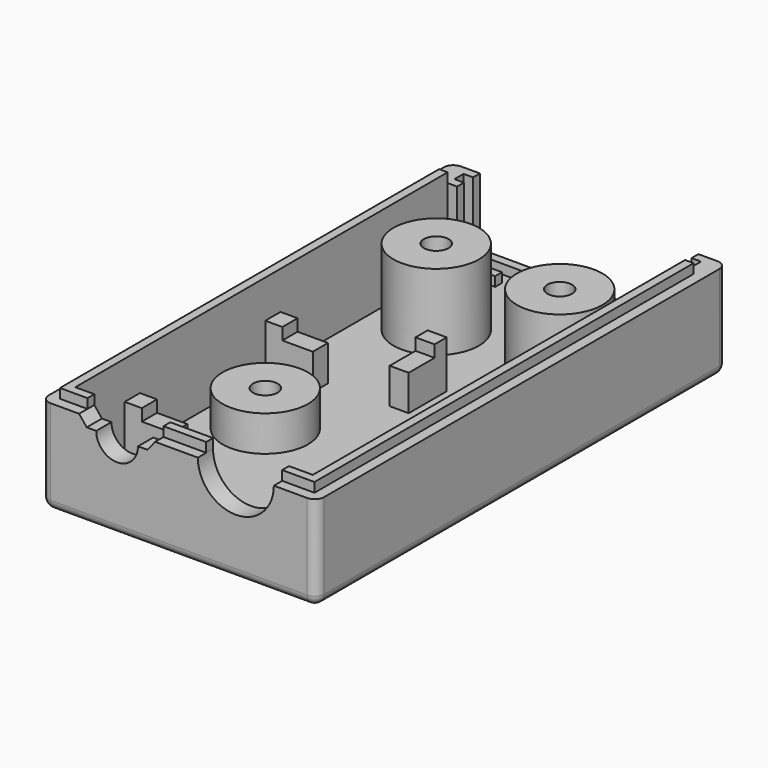
from build123d import *

# Parameters (mm, degrees)
SKETCH008_W     = 36.83
SKETCH008_H     = 68.58
PAD006_DEPTH    = 8.89
SKETCH009_W     = 31.75
SKETCH009_H     = 62.23
POCKET001_DEPTH = 6.35
SKETCH010_R     = 5.715
SKETCH010_W     = 6.35
SKETCH010_H     = 2.54
SKETCH010_W_2   = 5.08
SKETCH010_W_3   = 2.54
SKETCH010_H_2   = 6.35
SKETCH010_H_3   = 3.81
PAD007_DEPTH    = 6.35
POCKET002_DEPTH = 1.5875
SKETCH012_W     = 36.83
SKETCH012_H     = 68.58
SKETCH012_W_2   = 31.75
SKETCH012_H_2   = 62.23
SKETCH012_R     = 5.715
PAD008_DEPTH    = 3.81
SKETCH013_R     = 5.08
POCKET003_DEPTH = 5.08
SKETCH014_R     = 1.651
POCKET004_DEPTH = 12.701
SKETCH015_R     = 3.175
POCKET005_DEPTH = 10.16
SKETCH016_R     = 3.175
POCKET006_DEPTH = 4.7625
SKETCH017_W     = 5.715
SKETCH017_H     = 1.143
PAD009_DEPTH    = 1.27
POCKET007_DEPTH = 10.16
SKETCH019_W     = 29.21
SKETCH019_H     = 1.143
SKETCH019_W_2   = 5.08
PAD010_DEPTH    = 1.27
FILLET004_R     = 1.27
FILLET005_R     = 0.762


with BuildPart() as part:
    # Sketch008 → Pad006 (new body)
    with BuildSketch(Plane.XY):
        with Locations((15.875, 31.75)):
            Rectangle(SKETCH008_W, SKETCH008_H)
    extrude(amount=-PAD006_DEPTH)

    # Sketch009 (on Face5 of Pad006) → Pocket001 (cut)
    with BuildSketch(Plane.XY):
        with Locations((15.875, 31.115)):
            Rectangle(SKETCH009_W, SKETCH009_H)
    extrude(amount=-POCKET001_DEPTH, mode=Mode.SUBTRACT)

    # Sketch010 (on Face11 of Pocket001) → Pad007 (join)
    with BuildSketch(Plane.XY.offset(-6.35)):
        with Locations((7.62, 22.225)):
            Circle(SKETCH010_R)
        with Locations((7.62, 50.8)):
            Circle(SKETCH010_R)
        with Locations((24.13, 50.8)):
            Circle(SKETCH010_R)
        with Locations((3.175, 33.02)):
            Rectangle(SKETCH010_W, SKETCH010_H)
        with Locations((29.21, 33.02)):
            Rectangle(SKETCH010_W_2, SKETCH010_H)
        with Locations((3.175, 9.525)):
            Rectangle(SKETCH010_W, SKETCH010_H)
        with Locations((29.21, 9.525)):
            Rectangle(SKETCH010_W_2, SKETCH010_H)
        with Locations((15.875, 37.465)):
            Rectangle(SKETCH010_W_3, SKETCH010_H_2)
        with Locations((13.97, 1.905)):
            Rectangle(SKETCH010_W_3, SKETCH010_H_3)
    extrude(amount=PAD007_DEPTH)

    # Sketch011 (on Face4 of Pad007) → Pocket002 (cut)
    with BuildSketch(Plane.XY):
        with BuildLine():
            Line((2.286, 0), (31.369, 0))
            Line((31.369, 0), (31.369, 38.608))
            Line((31.369, 38.608), (2.286, 38.608))
            Line((2.286, 38.608), (2.286, 25.670424))
            ThreePointArc((2.286, 25.670424), (1.27, 22.225), (2.286, 18.779576))
            Line((2.286, 0), (2.286, 18.779576))
        make_face()
    extrude(amount=-POCKET002_DEPTH, mode=Mode.SUBTRACT)

    # Sketch012 (on Face4 of Pocket002) → Pad008 (join)
    with BuildSketch(Plane.XY):
        with Locations((15.875, 31.75)):
            Rectangle(SKETCH012_W, SKETCH012_H)
        with Locations((15.875, 31.115)):
            Rectangle(SKETCH012_W_2, SKETCH012_H_2, mode=Mode.SUBTRACT)
        with Locations((7.62, 50.8)):
            Circle(SKETCH012_R)
        with Locations((24.13, 50.8)):
            Circle(SKETCH012_R)
    extrude(amount=PAD008_DEPTH)

    # Sketch013 (on Face4 of Pad008) → Pocket003 (cut)
    with BuildSketch(Plane.XZ.offset(2.54)):
        with Locations((23.495, 3.81)):
            Circle(SKETCH013_R)
        with BuildLine():
            Line((2.54, 3.81), (3.556, 2.54))
            Line((3.556, 2.54), (4.826, 2.54))
            ThreePointArc((4.826, 2.54), (7.62, -0.254), (10.414, 2.54))
            Line((10.414, 2.54), (11.684, 2.54))
            Line((11.684, 2.54), (12.7, 3.81))
            Line((12.7, 3.81), (2.54, 3.81))
        make_face()
    extrude(amount=-POCKET003_DEPTH, mode=Mode.SUBTRACT)

    # Sketch014 (on Face11 of Pocket003) → Pocket004 (cut, through all)
    with BuildSketch(Plane.XY.offset(3.81)):
        with Locations((7.62, 50.8)):
            Circle(SKETCH014_R)
        with Locations((24.13, 50.8)):
            Circle(SKETCH014_R)
        with Locations((7.62, 22.225)):
            Circle(SKETCH014_R)
    extrude(amount=-POCKET004_DEPTH, mode=Mode.SUBTRACT)

    # Sketch015 (on Face8 of Pocket004) → Pocket005 (cut)
    with BuildSketch(Plane(origin=(0, 0, -8.89), x_dir=(1, 0, 0), z_dir=(0, 0, -1))):
        with Locations((7.62, -50.8)):
            Circle(SKETCH015_R)
        with Locations((24.13, -50.8)):
            Circle(SKETCH015_R)
    extrude(amount=-POCKET005_DEPTH, mode=Mode.SUBTRACT)

    # Sketch016 (on Face8 of Pocket005) → Pocket006 (cut)
    with BuildSketch(Plane(origin=(0, 0, -8.89), x_dir=(1, 0, 0), z_dir=(0, 0, -1))):
        with Locations((7.62, -22.225)):
            Circle(SKETCH016_R)
    extrude(amount=-POCKET006_DEPTH, mode=Mode.SUBTRACT)

    # Sketch017 (on Face11 of Pocket006) → Pad009 (join)
    with BuildSketch(Plane.XY.offset(3.81)):
        Polygon((0, 62.23), (-1.143, 62.23), (-1.143, -1.143), (2.54, -1.143), (2.54, 0), (0, 0), align=None)
        Polygon((31.75, 62.23), (31.75, 0), (28.575, 0), (28.575, -1.143), (32.893, -1.143), (32.893, 62.23), align=None)
        with Locations((15.5575, -0.5715)):
            Rectangle(SKETCH017_W, SKETCH017_H)
    extrude(amount=PAD009_DEPTH)

    # Sketch018 (on Face11 of Pad009) → Pocket007 (cut)
    with BuildSketch(Plane.XY.offset(3.81)):
        Polygon((1.27, 66.04), (1.27, 64.897), (0, 64.897), (0, 63.373), (1.27, 63.373), (1.27, 62.23), (30.48, 62.23), (30.48, 63.373), (31.75, 63.373), (31.75, 64.897), (30.48, 64.897), (30.48, 66.04), align=None)
    extrude(amount=-POCKET007_DEPTH, mode=Mode.SUBTRACT)

    # Sketch019 (on Face63 of Pocket007) → Pad010 (join)
    with BuildSketch(Plane.XY.offset(-6.35)):
        with Locations((15.875, 65.4685)):
            Rectangle(SKETCH019_W, SKETCH019_H)
        with Locations((3.81, 62.8015)):
            Rectangle(SKETCH019_W_2, SKETCH019_H)
        with Locations((27.94, 62.8015)):
            Rectangle(SKETCH019_W_2, SKETCH019_H)
    extrude(amount=PAD010_DEPTH)

    # Fillet004
    fillet004_edges = [part.edges().sort_by_distance(p)[0] for p in [
        (-2.54, -2.54, 1.905),
        (-2.54, -2.54, -4.445),
        (34.29, -2.54, -4.445),
        (34.29, -2.54, 1.905),
        (34.29, 66.04, 1.905),
        (34.29, 66.04, -4.445),
        (15.875, -2.54, -8.89),
        (34.29, 31.75, -8.89),
        (-2.54, 31.75, -8.89),
        (15.875, 66.04, -8.89),
        (-2.54, 66.04, 1.905),
        (-2.54, 66.04, -4.445),
    ]]
    fillet(fillet004_edges, radius=FILLET004_R)

    # Fillet005
    fillet005_edges = [part.edges().sort_by_distance(p)[0] for p in [
        (4.445, 22.225, -8.89),
        (20.955, 50.8, -8.89),
        (4.445, 50.8, -8.89),
    ]]
    fillet(fillet005_edges, radius=FILLET005_R)


solid = part.part
